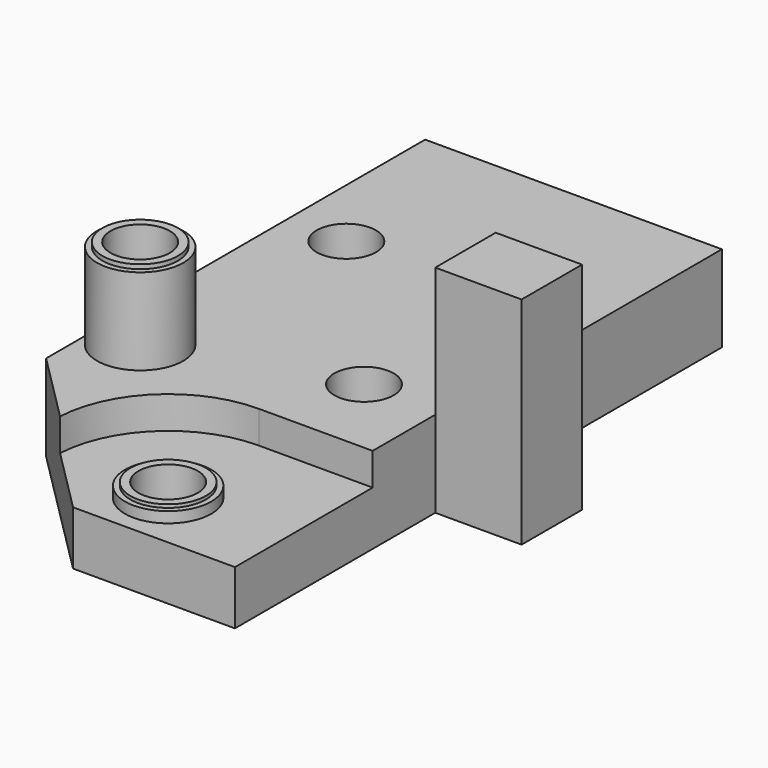
from build123d import *

# Parameters (mm, degrees)
SKETCH007_R             = 2.75
PAD004_DEPTH            = 8
POCKET003_DEPTH         = 3
SKETCH013_R             = 4
SKETCH013_R_2           = 2.75
PAD009_DEPTH            = 1
SKETCH014_R             = 3.5
SKETCH014_R_2           = 2.75
PAD010_DEPTH            = 0.3
SKETCH015_R             = 4
SKETCH015_R_2           = 2.75
PAD011_DEPTH            = 8
SKETCH016_R             = 3.5
SKETCH016_R_2           = 2.75
PAD012_DEPTH            = 0.4
SKETCH018_R             = 6
POCKET005_DEPTH         = 2
POCKET006_DEPTH         = 3
SKETCH022_W             = 7
SKETCH022_H             = 20
PAD015_DEPTH            = 8
BODY001_ROLL_ANGLE      = 180
BODY001_PLACEMENT_ANGLE = -90


with BuildPart() as part:
    # Sketch007 → Pad004 (new body)
    with BuildSketch(Plane.XY):
        Polygon((0, 27.5), (43.9, 27.5), (56.4, 15), (56.4, 0), (0, 0), align=None)
        with Locations((16, 22)):
            Circle(SKETCH007_R, mode=Mode.SUBTRACT)
        with Locations((16, 10)):
            Circle(SKETCH007_R, mode=Mode.SUBTRACT)
        with Locations((38, 23.5)):
            Circle(SKETCH007_R, mode=Mode.SUBTRACT)
        with Locations((32.7, 7)):
            Circle(SKETCH007_R, mode=Mode.SUBTRACT)
        with Locations((50.95, 10.55)):
            Circle(SKETCH007_R, mode=Mode.SUBTRACT)
    extrude(amount=PAD004_DEPTH)

    # Sketch012 (on Face11 of Pad004) → Pocket003 (cut)
    with BuildSketch(Plane(origin=(0, 0, 0), x_dir=(1, 0, 0), z_dir=(0, 0, -1))):
        with BuildLine():
            ThreePointArc((40.45, -10.55), (43.525379, -17.974621), (50.95, -21.05))
            Line((50.95, -21.05), (70.95, -21.05))
            Line((70.95, -21.05), (70.95, 0))
            Line((70.95, 0), (40.45, 0))
            Line((40.45, -10.55), (40.45, 0))
        make_face()
    extrude(amount=-POCKET003_DEPTH, mode=Mode.SUBTRACT)

    # Sketch013 (on Face8 of Pocket003) → Pad009 (join)
    with BuildSketch(Plane(origin=(0, 0, 3), x_dir=(1, 0, 0), z_dir=(0, 0, -1))):
        with Locations((50.95, -10.55)):
            Circle(SKETCH013_R)
        with Locations((50.95, -10.55)):
            Circle(SKETCH013_R_2, mode=Mode.SUBTRACT)
    extrude(amount=PAD009_DEPTH)

    # Sketch014 (on Face16 of Pad009) → Pad010 (join)
    with BuildSketch(Plane(origin=(0, 0, 2), x_dir=(1, 0, 0), z_dir=(0, 0, -1))):
        with Locations((50.95, -10.55)):
            Circle(SKETCH014_R)
        with Locations((50.95, -10.55)):
            Circle(SKETCH014_R_2, mode=Mode.SUBTRACT)
    extrude(amount=PAD010_DEPTH)

    # Sketch015 (on Face4 of Pad010) → Pad011 (join)
    with BuildSketch(Plane(origin=(0, 0, 0), x_dir=(1, 0, 0), z_dir=(0, 0, -1))):
        with Locations((38, -23.5)):
            Circle(SKETCH015_R)
        with Locations((38, -23.5)):
            Circle(SKETCH015_R_2, mode=Mode.SUBTRACT)
    extrude(amount=PAD011_DEPTH)

    # Sketch016 (on Face17 of Pad011) → Pad012 (join)
    with BuildSketch(Plane(origin=(0, 0, -8), x_dir=(1, 0, 0), z_dir=(0, 0, -1))):
        with Locations((38, -23.5)):
            Circle(SKETCH016_R)
        with Locations((38, -23.5)):
            Circle(SKETCH016_R_2, mode=Mode.SUBTRACT)
    extrude(amount=PAD012_DEPTH)

    # Sketch018 (on Face5 of Pad012) → Pocket005 (cut)
    with BuildSketch(Plane.XY.offset(8)):
        with Locations((16, 10)):
            Circle(SKETCH018_R)
    extrude(amount=-POCKET005_DEPTH, mode=Mode.SUBTRACT)

    # Sketch019 (on Face5 of Pocket005) → Pocket006 (cut)
    with BuildSketch(Plane.XY.offset(8)):
        Polygon((20.75, 22), (18.375, 26.113621), (13.625, 26.113621), (11.25, 22), (13.625, 17.886379), (18.375, 17.886379), align=None)
        Polygon((42.75, 23.5), (40.375, 27.613621), (35.625, 27.613621), (33.25, 23.5), (35.625, 19.386379), (40.375, 19.386379), align=None)
        Polygon((37.45, 7), (35.075, 11.113621), (30.325, 11.113621), (27.95, 7), (30.325, 2.886379), (35.075, 2.886379), align=None)
        Polygon((55.7, 10.55), (53.325, 14.663621), (48.575, 14.663621), (46.2, 10.55), (48.575, 6.436379), (53.325, 6.436379), align=None)
    extrude(amount=-POCKET006_DEPTH, mode=Mode.SUBTRACT)

    # Sketch022 (on Face9 of Pocket006) → Pad015 (join)
    with BuildSketch(Plane.XZ):
        with Locations((29.7, -2)):
            Rectangle(SKETCH022_W, SKETCH022_H)
    extrude(amount=PAD015_DEPTH)


with BuildPart() as part_1:
    # Body001 roll: moved
    add(part.part.rotate(Axis((0, 0, 0), (1, 0, 0)), BODY001_ROLL_ANGLE))


with BuildPart() as part_2:
    # Body001 placement: moved
    add(part_1.part.moved(Location((65, 23, -20))).rotate(Axis((65, 23, -20), (0, 0, 1)), BODY001_PLACEMENT_ANGLE))


solid = part_2.part
